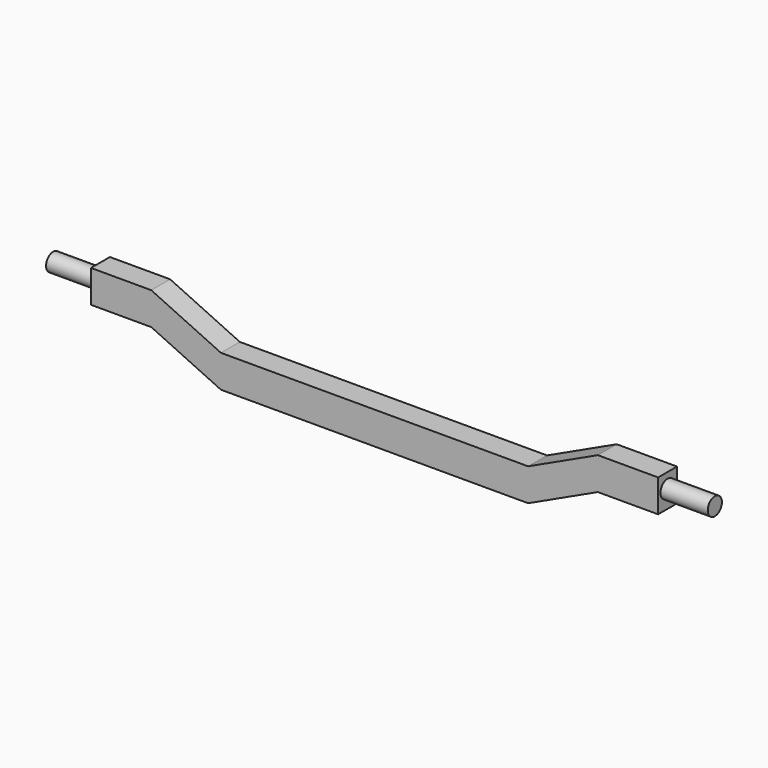
from build123d import *

# Parameters (mm, degrees)
F1_DEPTH = 50.8
F3_R     = 19.05
F4_DEPTH = 101.6


with BuildPart() as f1:
    # F0 (on Front) → F1 (new body)
    with BuildSketch(Plane.XZ):
        Polygon((0, 69.85), (0, 0), (330.2, 0), (479.993808, 69.85), (609.6, 69.85), (609.6, 139.7), (479.993808, 139.7), (330.2, 69.85), align=None)
    extrude(amount=F1_DEPTH)

    # F2: F1 across plane


with BuildPart() as f1_1:
    add(f1.part)
    add(f1.part.mirror(Plane.YZ))

    # F3 (on face) → F4 (join)
    with BuildSketch(Plane.YZ.offset(609.6)):
        with Locations((-25.4, 107.95)):
            Circle(F3_R)
    extrude(amount=F4_DEPTH)

    # F5: F1 across plane


with BuildPart() as f1_2:
    add(f1_1.part)
    add(f1_1.part.mirror(Plane.YZ))


solid = f1_2.part
